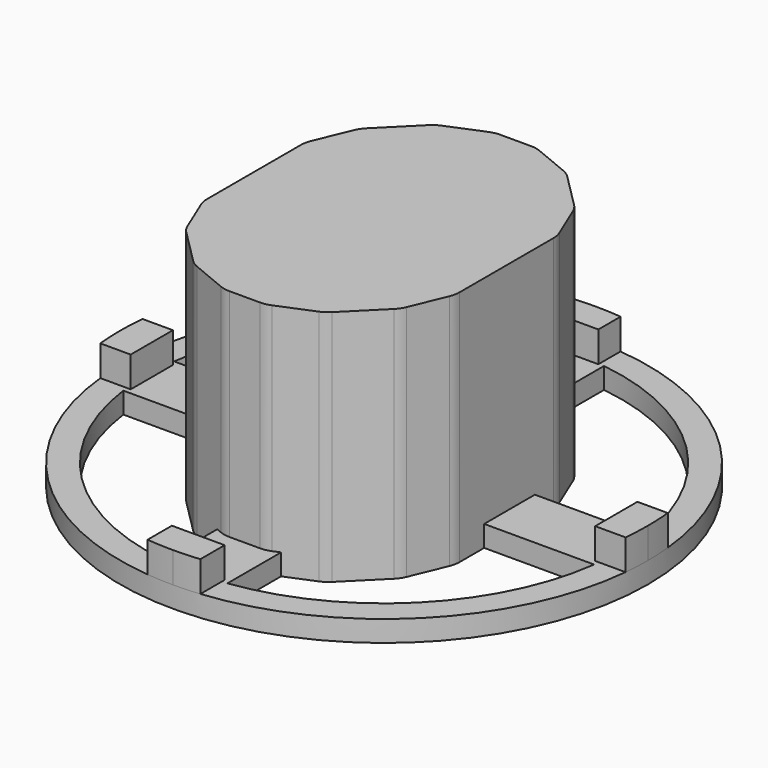
from build123d import *

# Parameters (mm, degrees)
F0_R      = 50
F1_DEPTH  = 4
F3_DEPTH  = 5.8
F4_DEPTH  = 5.8
F5_DEPTH  = 5.8
F6_R      = 45
F7_DEPTH  = 4
F8_W      = 6
F8_H      = 6
F9_DEPTH  = 4
F10_R     = 22.5
F11_DEPTH = 25
F12_W     = 47.8333383799
F12_H     = 64.1666669399
F13_DEPTH = 45
F14_SIZE  = 15
F15_SIZE  = 5
F16_R     = 5
F18_DEPTH = 43
F19_R     = 10


with BuildPart() as f1:
    # F0 (on Top) → F1 (new body)
    with BuildSketch(Plane.XY):
        Circle(F0_R)
    extrude(amount=F1_DEPTH)

    # F2 (on face) → F3 (join)
    with BuildSketch(Plane.XY.offset(4)):
        with BuildLine():
            ThreePointArc((5, 49.7493718553), (2.503138753, 49.9373036555), (0, 50))
            ThreePointArc((0, 50), (-2.503138753, 49.9373036555), (-5, 49.7493718553))
            Line((-5, 49.7493718553), (-5, 44.5003296036))
            Line((-5, 44.5003296036), (5, 44.5003296036))
            Line((5, 44.5003296036), (5, 49.7493718553))
        make_face()
    extrude(amount=F3_DEPTH)

    # F2 (on face) → F4 (join)
    with BuildSketch(Plane.XY.offset(4)):
        with BuildLine():
            ThreePointArc((0, -50), (2.503138753, -49.9373036555), (5, -49.7493718553))
            Line((5, -49.7493718553), (5, -44))
            Line((5, -44), (-5, -44))
            Line((-5, -44), (-5, -49.7493718553))
            ThreePointArc((-5, -49.7493718553), (-2.503138753, -49.9373036555), (0, -50))
        make_face()
    extrude(amount=F4_DEPTH)

    # F2 (on face) → F5 (join)
    with BuildSketch(Plane.XY.offset(4)):
        with BuildLine():
            Line((-44, 5), (-49.7493718553, 5))
            ThreePointArc((-49.7493718553, 5), (-49.9373036555, 2.503138753), (-50, 0))
            ThreePointArc((-50, 0), (-49.9373036555, -2.503138753), (-49.7493718553, -5))
            Line((-49.7493718553, -5), (-44, -5))
            Line((-44, -5), (-44, 5))
        make_face()
        with BuildLine():
            ThreePointArc((50, 0), (49.9373036555, 2.503138753), (49.7493718553, 5))
            Line((49.7493718553, 5), (44, 5))
            Line((44, 5), (44, -5))
            Line((44, -5), (49.7493718553, -5))
            ThreePointArc((49.7493718553, -5), (49.9373036555, -2.503138753), (50, 0))
        make_face()
    extrude(amount=F5_DEPTH)

    # F6 (on Top) → F7 (cut)
    with BuildSketch(Plane.XY):
        Circle(F6_R)
    extrude(amount=F7_DEPTH, mode=Mode.SUBTRACT)

    # F8 (on Top) → F9 (join)
    with BuildSketch(Plane.XY):
        Polygon((6, 46.8811020255), (-6, 46.8811020255), (-6, 6), (0, 6), (6, 6), align=None)
        with Locations((-3, 3)):
            Rectangle(F8_W, F8_H)
        Polygon((-6, 0), (-6, 6), (-46.5700030327, 6), (-46.5700030327, -6), (-6, -6), align=None)
        Polygon((46.8255914748, 6), (6, 6), (6, 0), (6, -6), (46.8255914748, -6), align=None)
        with Locations((3, 3)):
            Rectangle(F8_W, F8_H)
        with Locations((-3, -3)):
            Rectangle(F8_W, F8_H)
        with Locations((3, -3)):
            Rectangle(F8_W, F8_H)
        Polygon((0, -6), (-6, -6), (-6, -46.7753745615), (6, -46.7753745615), (6, -6), align=None)
    extrude(amount=F9_DEPTH)

    # F10 (on face) → F11 (cut)
    with BuildSketch(Plane(origin=(0, 0, 0), x_dir=(1, 0, 0), z_dir=(0, 0, -1))):
        Circle(F10_R)
    extrude(amount=-F11_DEPTH, mode=Mode.SUBTRACT)

    # F12 (on Top) → F13 (join)
    with BuildSketch(Plane.XY):
        with Locations((-0.1458320767, -0.7291669026)):
            Rectangle(F12_W, F12_H)
    extrude(amount=F13_DEPTH)

    # F14
    f14_edges = [f1.edges().sort_by_distance(p)[0] for p in [
        (-24.062501, 31.354167, 22.5),
        (23.770837, 31.354167, 22.5),
        (23.770837, -32.8125, 22.5),
        (-24.062501, -32.8125, 22.5),
    ]]
    chamfer(f14_edges, length=F14_SIZE)

    # F15
    f15_edges = [f1.edges().sort_by_distance(p)[0] for p in [
        (-9.062501, 31.354167, 22.5),
        (8.770837, 31.354167, 22.5),
        (-24.062501, -17.8125, 22.5),
        (-9.062501, -32.8125, 22.5),
        (8.770837, -32.8125, 22.5),
        (23.770837, -17.8125, 22.5),
        (23.770837, 16.354167, 22.5),
        (-24.062501, 16.354167, 22.5),
    ]]
    chamfer(f15_edges, length=F15_SIZE)

    # F16
    f16_edges = [f1.edges().sort_by_distance(p)[0] for p in [
        (-24.062501, 11.354167, 22.5),
        (-20.526967, 19.8897, 22.5),
        (-12.598035, 27.818633, 22.5),
        (-4.062501, 31.354167, 24.5),
        (3.770837, 31.354167, 24.5),
        (12.306371, 27.818633, 22.5),
        (20.235303, 19.8897, 22.5),
        (23.770837, 11.354167, 22.5),
        (23.770837, -12.8125, 22.5),
        (20.235303, -21.348034, 22.5),
        (12.306371, -29.276966, 22.5),
        (3.770837, -32.8125, 24.5),
        (-4.062501, -32.8125, 24.5),
        (-24.062501, -12.8125, 22.5),
        (-20.526967, -21.348034, 22.5),
        (-12.598035, -29.276966, 22.5),
    ]]
    fillet(f16_edges, radius=F16_R)

    # F17 (on face) → F18 (cut)
    with BuildSketch(Plane(origin=(0, 0, 0), x_dir=(1, 0, 0), z_dir=(0, 0, -1))):
        with BuildLine():
            Line((11.3142130134, 19.4022327268), (11.1320833255, 19.7139199305))
            ThreePointArc((11.1320833255, 19.7139199305), (0, 26), (-11.1320833255, 19.7139199305))
            ThreePointArc((-11.1320833255, 19.7139199305), (-11.9963062924, 7.9911443085), (-3.0526367469, 0.3634890539))
            ThreePointArc((-3.0526367469, 0.3634890539), (0, 0.7269781077), (3.0526367469, 0.3634890539))
            ThreePointArc((3.0526367469, 0.3634890539), (10.2147999909, 4.9589887983), (13, 13))
            ThreePointArc((13, 13), (12.5714909453, 16.3102289065), (11.3142130134, 19.4022327268))
        make_face()
        with BuildLine():
            ThreePointArc((11.3142130134, 19.4022327268), (11.2242301322, 19.5587085572), (11.1320833255, 19.7139199305))
            Line((11.1320833255, 19.7139199305), (11.3142130134, 19.4022327268))
        make_face()
        with BuildLine():
            ThreePointArc((-3.0526367469, 0.3634890539), (-11.9963062924, 7.9911443085), (-11.1320833255, 19.7139199305))
            Line((-11.1320833255, 19.7139199305), (-20.499, 4.1830083316))
            Line((-20.499, 4.1830083316), (-20.499, -4.1830083316))
            Line((-20.499, -4.1830083316), (-10.9868011053, -19.2221370497))
            ThreePointArc((-10.9868011053, -19.2221370497), (-12.0488854783, -7.3920016371), (-3.0526367469, 0.3634890539))
        make_face()
        with BuildLine():
            Line((20.2073358467, 4.1830083316), (11.3142130134, 19.4022327268))
            ThreePointArc((11.3142130134, 19.4022327268), (12.5714909453, 16.3102289065), (13, 13))
            ThreePointArc((13, 13), (10.2147999909, 4.9589887983), (3.0526367469, 0.3634890539))
            ThreePointArc((3.0526367469, 0.3634890539), (10.2147999909, -4.2320106906), (13, -12.2730218923))
            ThreePointArc((13, -12.2730218923), (12.5358890301, -15.7156206526), (11.1766944269, -18.9124120515))
            Line((11.1766944269, -18.9124120515), (20.2073358467, -4.1830083316))
            Line((20.2073358467, -4.1830083316), (20.2073358467, 4.1830083316))
        make_face()
        with BuildLine():
            ThreePointArc((3.0526367469, 0.3634890539), (0, 0), (-3.0526367469, 0.3634890539))
            ThreePointArc((-3.0526367469, 0.3634890539), (-12.0488854783, -7.3920016371), (-10.9868011053, -19.2221370497))
            ThreePointArc((-10.9868011053, -19.2221370497), (0, -25.2730218923), (10.9868011053, -19.2221370497))
            Line((10.9868011053, -19.2221370497), (11.1766944269, -18.9124120515))
            ThreePointArc((11.1766944269, -18.9124120515), (12.5358890301, -15.7156206526), (13, -12.2730218923))
            ThreePointArc((13, -12.2730218923), (10.2147999909, -4.2320106906), (3.0526367469, 0.3634890539))
        make_face()
        with BuildLine():
            Line((11.1766944269, -18.9124120515), (10.9868011053, -19.2221370497))
            ThreePointArc((10.9868011053, -19.2221370497), (11.0828297806, -19.0679379369), (11.1766944269, -18.9124120515))
        make_face()
        with BuildLine():
            ThreePointArc((3.0526367469, 0.3634890539), (0, 0.7269781077), (-3.0526367469, 0.3634890539))
            ThreePointArc((-3.0526367469, 0.3634890539), (0, 0), (3.0526367469, 0.3634890539))
        make_face()
    extrude(amount=-F18_DEPTH, mode=Mode.SUBTRACT)

    # F19
    f19_edges = [f1.edges().sort_by_distance(p)[0] for p in [
        (-20.499, 4.183008, 21.5),
        (20.207336, 4.183008, 21.5),
        (-20.499, -4.183008, 21.5),
        (20.207336, -4.183008, 21.5),
    ]]
    fillet(f19_edges, radius=F19_R)


solid = f1.part
